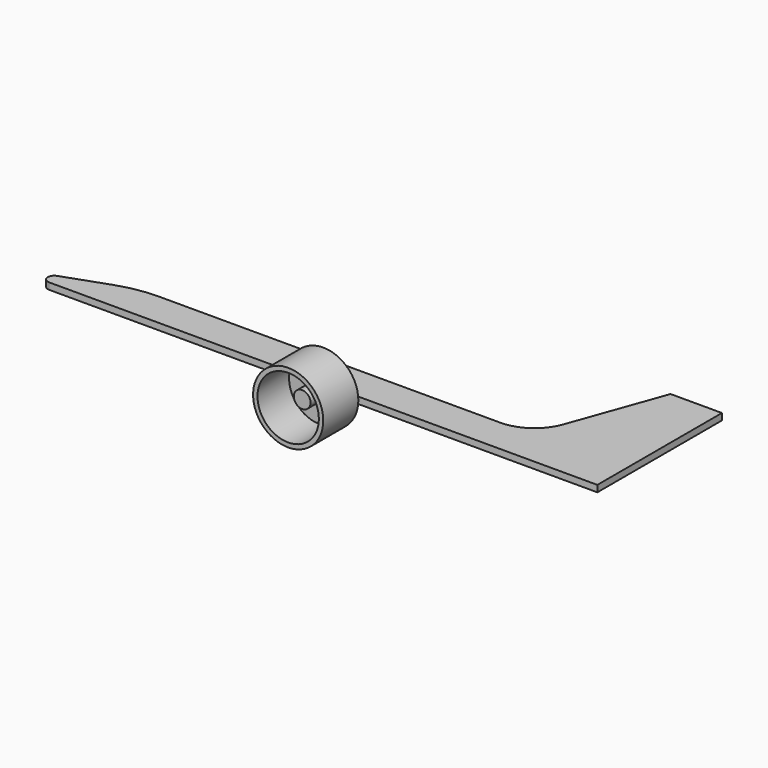
from build123d import *

# Parameters (mm, degrees)
PAD002_DEPTH    = 1.5
COPYSKETCH005_R = 16
PAD_DEPTH       = 20
COPYSKETCH006_R = 14
POCKET_DEPTH    = 18
COPYSKETCH007_R = 3.8
PAD001_DEPTH    = 10


with BuildPart() as body001:
    # CopySketch004 → Pad002 (new body, symmetric)
    with BuildSketch(Plane.XY):
        with BuildLine():
            Line((-125.969839, 5.652203), (-105.955548, 12.728901))
            ThreePointArc((-87.587906, 15.880533), (-96.90594, 15.08691), (-105.955548, 12.728901))
            Line((-87.587906, 15.880533), (-56.304531, 15.880533))
            Line((-56.304531, 15.880533), (67.96893, 15.880533))
            ThreePointArc((67.96893, 15.880533), (79.23833, 19.445245), (86.407644, 28.842452))
            Line((86.407644, 28.842452), (101.576416, 71.003891))
            Line((101.576416, 71.003891), (125, 71.003891))
            Line((125, 71.003891), (125, 0))
            Line((125, 0), (-125, 0))
            ThreePointArc((-125.969839, 5.652203), (-127.867402, 2.4173), (-125, 0))
        make_face()
    extrude(amount=PAD002_DEPTH, both=True)


with BuildPart() as body002:
    # CopySketch005 → Pad (new body)
    with BuildSketch(Plane.XZ):
        Circle(COPYSKETCH005_R)
    extrude(amount=PAD_DEPTH)

    # CopySketch006 → Pocket (cut)
    with BuildSketch(Plane.XZ.offset(20)):
        Circle(COPYSKETCH006_R)
    extrude(amount=-POCKET_DEPTH, mode=Mode.SUBTRACT)

    # CopySketch007 → Pad001 (join)
    with BuildSketch(Plane.XZ.offset(2)):
        Circle(COPYSKETCH007_R)
    extrude(amount=PAD001_DEPTH)


solid = Compound([body001.part, body002.part])
